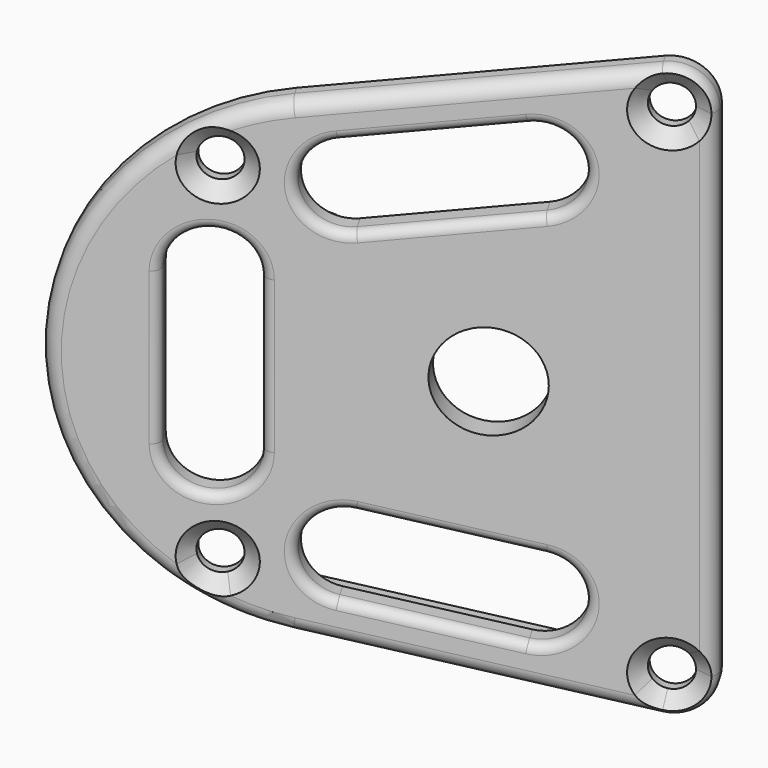
from build123d import *

# Parameters (mm, degrees)
SKETCH064_R   = 5
SKETCH064_R_2 = 2
PAD034_DEPTH  = 2.5
SKETCH065_W   = 1
SKETCH065_H   = 42
PAD035_DEPTH  = 1.5
SKETCH093_R   = 2.5
SKETCH093_R_2 = 1
PAD058_DEPTH  = 5.5
FILLET001_R   = 1
FILLET002_R   = 1.5
CHAMFER_SIZE  = 1.5


with BuildPart() as part:
    # Sketch064 (on DatumPlane) → Pad034 (new body)
    with BuildSketch(Plane(origin=(1.5, 0.401924, 0), x_dir=(0.866025, 0.5, 0), z_dir=(0.5, -0.866025, 0))):
        with BuildLine():
            Line((56, 26.06023), (56, -26.06023))
            ThreePointArc((51.30847, -30), (54.572341, -29.123408), (56, -26.06023))
            Line((51.30847, -30), (20.677938, -24.623561))
            ThreePointArc((20.677938, 24.623561), (0, 0), (20.677938, -24.623561))
            Line((20.677938, 24.623561), (51.30847, 30))
            ThreePointArc((56, 26.06023), (54.572341, 29.123408), (51.30847, 30))
        make_face()
        with Locations((37, 0)):
            Circle(SKETCH064_R, mode=Mode.SUBTRACT)
        with Locations((52, 26.06023)):
            Circle(SKETCH064_R_2, mode=Mode.SUBTRACT)
        with Locations((52, -26.06023)):
            Circle(SKETCH064_R_2, mode=Mode.SUBTRACT)
        with Locations((14.5, -18.186533)):
            Circle(SKETCH064_R_2, mode=Mode.SUBTRACT)
        with Locations((14.5, 18.186533)):
            Circle(SKETCH064_R_2, mode=Mode.SUBTRACT)
        with BuildLine():
            ThreePointArc((24.501937, 21.226197), (21.091285, 16.363333), (25.954149, 12.952681))
            Line((25.954149, 12.952681), (41.713229, 15.7188))
            ThreePointArc((41.713229, 15.7188), (45.123881, 20.581665), (40.261016, 23.992317))
            Line((40.261016, 23.992317), (24.501937, 21.226197))
        make_face(mode=Mode.SUBTRACT)
        with BuildLine():
            ThreePointArc((25.954149, -12.952681), (21.091285, -16.363333), (24.501937, -21.226197))
            Line((24.501937, -21.226197), (40.261016, -23.992317))
            ThreePointArc((40.261016, -23.992317), (45.123881, -20.581665), (41.713229, -15.7188))
            Line((41.713229, -15.7188), (25.954149, -12.952681))
        make_face(mode=Mode.SUBTRACT)
        with BuildLine():
            ThreePointArc((9.8, -8), (14, -12.2), (18.2, -8))
            Line((18.2, -8), (18.2, 8))
            ThreePointArc((18.2, 8), (14, 12.2), (9.8, 8))
            Line((9.8, 8), (9.8, -8))
        make_face(mode=Mode.SUBTRACT)
    extrude(amount=PAD034_DEPTH)

    # Sketch065 (on DatumPlane) → Pad035 (join)
    with BuildSketch(Plane(origin=(1.5, 0.401924, 0), x_dir=(0.866025, 0.5, 0), z_dir=(0.5, -0.866025, 0))):
        with BuildLine():
            ThreePointArc((9.509118, 16.041278), (2.7, 0), (9.509118, -16.041278))
            Line((10.203777, -15.321938), (9.509118, -16.041278))
            ThreePointArc((10.203777, 15.321938), (3.7, 0), (10.203777, -15.321938))
            Line((9.509118, 16.041278), (10.203777, 15.321938))
        make_face()
        with Locations((52.8, 0)):
            Rectangle(SKETCH065_W, SKETCH065_H)
        Polygon((18.720112, 21.538636), (46.298501, 26.379346), (46.471383, 25.394403), (18.892994, 20.553694), align=None)
        Polygon((18.720112, -21.538636), (46.298501, -26.379346), (46.471383, -25.394403), (18.892994, -20.553694), align=None)
    extrude(amount=-PAD035_DEPTH)

    # Sketch093 (on DatumPlane) → Pad058 (join)
    with BuildSketch(Plane(origin=(1.5, 0.401924, 0), x_dir=(0.866025, 0.5, 0), z_dir=(0.5, -0.866025, 0))):
        with Locations((22, 8)):
            Circle(SKETCH093_R)
        with Locations((22, 8)):
            Circle(SKETCH093_R_2, mode=Mode.SUBTRACT)
        with Locations((47, 12)):
            Circle(SKETCH093_R)
        with Locations((47, 12)):
            Circle(SKETCH093_R_2, mode=Mode.SUBTRACT)
        with Locations((47, -12)):
            Circle(SKETCH093_R)
        with Locations((47, -12)):
            Circle(SKETCH093_R_2, mode=Mode.SUBTRACT)
        with Locations((22, -8)):
            Circle(SKETCH093_R)
        with Locations((22, -8)):
            Circle(SKETCH093_R_2, mode=Mode.SUBTRACT)
    extrude(amount=-PAD058_DEPTH)

    # Fillet001
    fillet001_edges = [part.edges().sort_by_distance(p)[0] for p in [
        (14.874356, 5.23686, 12.2),
        (18.511662, 7.33686, 0),
        (14.874356, 5.23686, -12.2),
        (11.237049, 3.13686, 0),
        (21.015588, 8.782503, -16.363333),
        (32.050834, 15.153705, -14.335741),
        (41.828427, 20.798801, -20.581665),
        (30.793181, 14.427598, -22.609257),
        (32.050834, 15.153705, 14.335741),
        (41.828427, 20.798801, 20.581665),
        (30.793181, 14.427598, 22.609257),
        (21.015588, 8.782503, 16.363333),
    ]]
    fillet(fillet001_edges, radius=FILLET001_R)

    # Fillet002
    fillet002_edges = [part.edges().sort_by_distance(p)[0] for p in [
        (2.75, -1.76314, 0),
    ]]
    fillet(fillet002_edges, radius=FILLET002_R)

    # Chamfer
    chamfer_edges = [part.edges().sort_by_distance(p)[0] for p in [
        (13.575318, 4.48686, -18.186533),
        (13.575318, 4.48686, 18.186533),
        (46.05127, 23.23686, 26.06023),
        (46.05127, 23.23686, -26.06023),
    ]]
    chamfer(chamfer_edges, length=CHAMFER_SIZE)


solid = part.part
